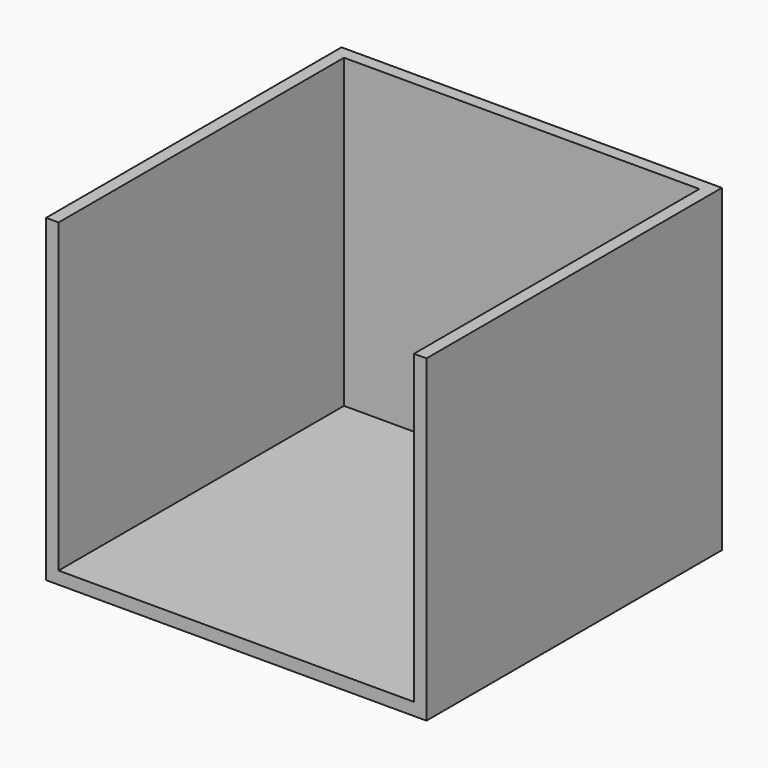
from build123d import *

# Parameters (mm, degrees)
F0_W     = 75.999997
F0_H     = 63.727334
F1_DEPTH = 73.779082
F2_T     = -2.5


with BuildPart() as f1:
    # F0 (on Front) → F1 (new body)
    with BuildSketch(Plane.XZ):
        with Locations((1.333348, 37.884884)):
            Rectangle(F0_W, F0_H)
    extrude(amount=F1_DEPTH)

    # F2
    f2_openings = [f1.faces().sort_by_distance(p)[0] for p in [
        (1.333348, -73.779082, 37.884884),
        (1.333348, -36.889541, 69.748551),
    ]]
    offset(amount=F2_T, openings=f2_openings)


solid = f1.part
